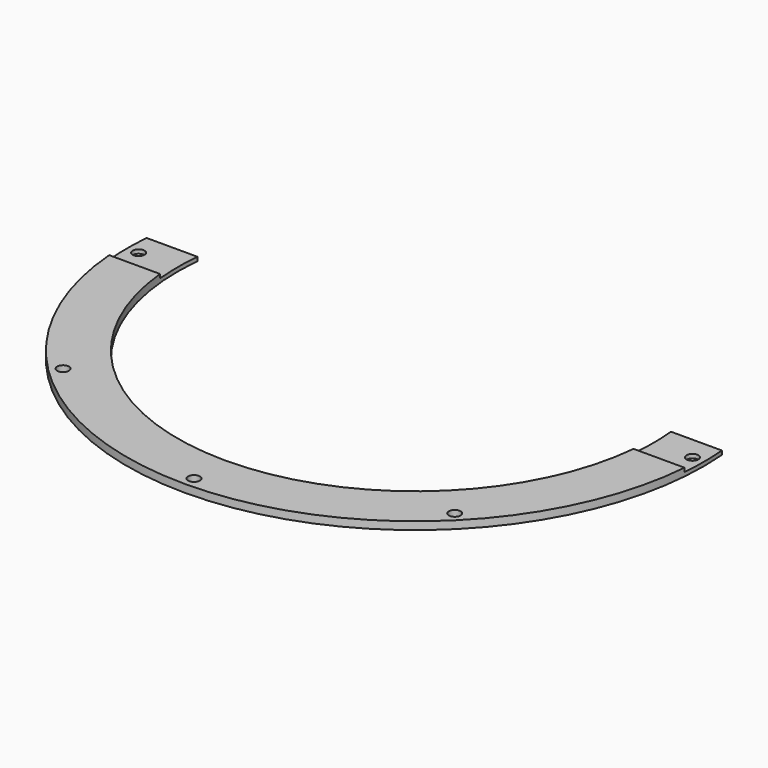
from build123d import *

# Parameters (mm, degrees)
BOX002_W                    = 180
BOX002_H                    = 180
BOX002_DEPTH                = 2
BOX003_W                    = 180
BOX003_H                    = 180
BOX003_DEPTH                = 1
CYLINDER505_R               = 1.5
CYLINDER505_DEPTH           = 60
CYLINDER505_PLACEMENT_ANGLE = 45
CYLINDER504_R               = 1.5
CYLINDER504_DEPTH           = 60
CYLINDER507_R               = 1.5
CYLINDER507_DEPTH           = 60
CYLINDER507_PLACEMENT_ANGLE = 135
CYLINDER506_R               = 1.5
CYLINDER506_DEPTH           = 60
CYLINDER506_PLACEMENT_ANGLE = 225
CYLINDER502_R               = 1.5
CYLINDER502_DEPTH           = 60
CYLINDER501_R               = 1.5
CYLINDER501_DEPTH           = 60
CYLINDER501_PLACEMENT_ANGLE = 45
CYLINDER503_R               = 1.5
CYLINDER503_DEPTH           = 60
TUBE030_R                   = 74
TUBE030_R_2                 = 61
TUBE030_DEPTH               = 2


with BuildPart() as krychle002:
    # Box002 → Box002 (new body)
    with BuildSketch(Plane(origin=(-90, -186, 14), x_dir=(1, 0, 0), z_dir=(0, 0, 1))):
        with Locations((90, 90)):
            Rectangle(BOX002_W, BOX002_H)
    extrude(amount=BOX002_DEPTH)


with BuildPart() as fusion:
    # Box003 → Box003 (new body)
    with BuildSketch(Plane(origin=(-90, -174, 14), x_dir=(1, 0, 0), z_dir=(0, 0, 1))):
        with Locations((90, 90)):
            Rectangle(BOX003_W, BOX003_H)
    extrude(amount=BOX003_DEPTH)

    # Fusion: union Krychle002
    add(krychle002.part)


with BuildPart() as obj1:
    # Cylinder505 → Cylinder505 (new body)
    with BuildSketch(Plane.XY):
        Circle(CYLINDER505_R)
    extrude(amount=CYLINDER505_DEPTH)


with BuildPart() as obj1_1:
    # Cylinder505 placement: moved
    add(obj1.part.moved(Location((50.204581, -50.204581, 0))).rotate(Axis((50.204581, -50.204581, 0), (0, 0, 1)), CYLINDER505_PLACEMENT_ANGLE))


with BuildPart() as obj2:
    # Cylinder504 → Cylinder504 (new body)
    with BuildSketch(Plane(origin=(71, 0, 0), x_dir=(0, 1, 0), z_dir=(0, 0, 1))):
        Circle(CYLINDER504_R)
    extrude(amount=CYLINDER504_DEPTH)


with BuildPart() as obj3:
    # Cylinder507 → Cylinder507 (new body)
    with BuildSketch(Plane.XY):
        Circle(CYLINDER507_R)
    extrude(amount=CYLINDER507_DEPTH)


with BuildPart() as obj3_1:
    # Cylinder507 placement: moved
    add(obj3.part.moved(Location((50.204581, 50.204581, 0))).rotate(Axis((50.204581, 50.204581, 0), (0, 0, 1)), CYLINDER507_PLACEMENT_ANGLE))


with BuildPart() as obj4:
    # Cylinder506 → Cylinder506 (new body)
    with BuildSketch(Plane.XY):
        Circle(CYLINDER506_R)
    extrude(amount=CYLINDER506_DEPTH)


with BuildPart() as obj4_1:
    # Cylinder506 placement: moved
    add(obj4.part.moved(Location((-50.204581, 50.204581, 0))).rotate(Axis((-50.204581, 50.204581, 0), (0, 0, 1)), CYLINDER506_PLACEMENT_ANGLE))


with BuildPart() as obj5:
    # Cylinder502 → Cylinder502 (new body)
    with BuildSketch(Plane(origin=(-71, 0, 0), x_dir=(0, -1, 0), z_dir=(0, 0, 1))):
        Circle(CYLINDER502_R)
    extrude(amount=CYLINDER502_DEPTH)


with BuildPart() as obj6:
    # Cylinder501 → Cylinder501 (new body)
    with BuildSketch(Plane.XY):
        Circle(CYLINDER501_R)
    extrude(amount=CYLINDER501_DEPTH)


with BuildPart() as obj6_1:
    # Cylinder501 placement: moved
    add(obj6.part.moved(Location((-50.204581, -50.204581, 0))).rotate(Axis((-50.204581, -50.204581, 0), (0, 0, -1)), CYLINDER501_PLACEMENT_ANGLE))


with BuildPart() as compound331:
    # Cylinder503 → Cylinder503 (new body)
    with BuildSketch(Plane(origin=(0, -71, 0), x_dir=(1, 0, 0), z_dir=(0, 0, 1))):
        Circle(CYLINDER503_R)
    extrude(amount=CYLINDER503_DEPTH)

    # Compound331: union obj1, obj2, obj3, obj4, obj5, obj6
    add(obj1_1.part)
    add(obj2.part)
    add(obj3_1.part)
    add(obj4_1.part)
    add(obj5.part)
    add(obj6_1.part)


with BuildPart() as obj7:
    # Tube030 → Tube030 (new body)
    with BuildSketch(Plane.XY.offset(14)):
        Circle(TUBE030_R)
        Circle(TUBE030_R_2, mode=Mode.SUBTRACT)
    extrude(amount=TUBE030_DEPTH)

    # Cut205: cut Compound331
    add(compound331.part, mode=Mode.SUBTRACT)

    # Common: intersect Fusion
    add(fusion.part, mode=Mode.INTERSECT)


solid = obj7.part
